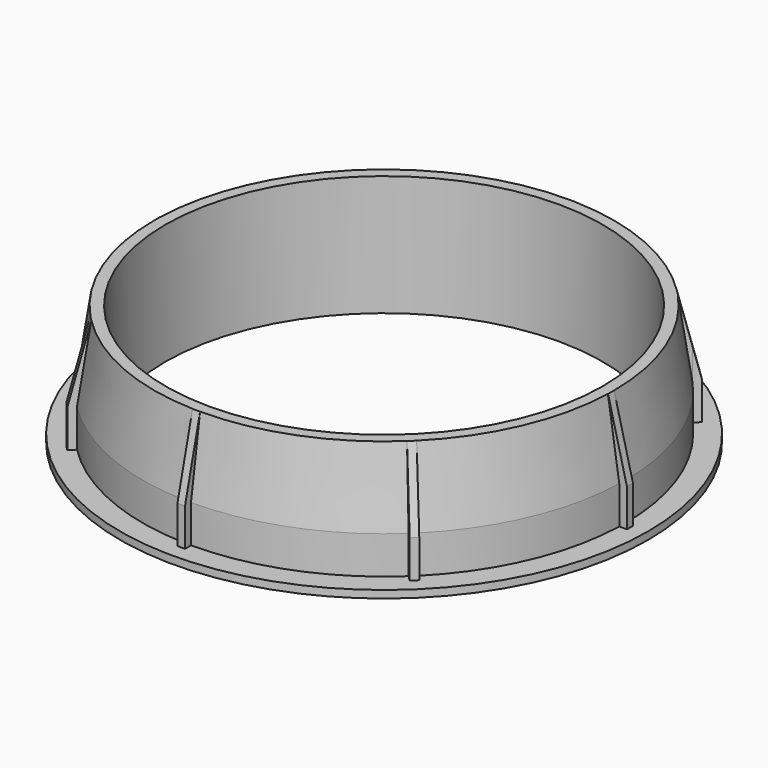
from build123d import *

# Parameters (mm, degrees)
F0_R       = 35
F1_DEPTH   = 1
F2_W       = 1
F2_H       = 1
F3_DEPTH   = 15
F4_R       = 29
F5_DEPTH   = 16.001
F6_SIZE2   = 10
F6_SIZE    = 1.5
F7_SIZE2   = 2.5
F7_SIZE    = 10
F7_2_SIZE2 = 2.5
F7_2_SIZE  = 10
F7_3_SIZE2 = 2.5
F7_3_SIZE  = 10
F7_4_SIZE2 = 2.5
F7_4_SIZE  = 10
F7_5_SIZE2 = 2.5
F7_5_SIZE  = 10
F7_6_SIZE2 = 2.5
F7_6_SIZE  = 10
F7_7_SIZE2 = 2.5
F7_7_SIZE  = 10
F7_8_SIZE2 = 2.5
F7_8_SIZE  = 10


with BuildPart() as f1:
    # F0 (on Top) → F1 (new body)
    with BuildSketch(Plane.XY):
        Circle(F0_R)
    extrude(amount=F1_DEPTH)

    # F2 (on face) → F3 (join)
    with BuildSketch(Plane.XY.offset(1)):
        with BuildLine():
            Line((31, 0), (32, 0))
            ThreePointArc((32, 0), (29.7519001173, 11.7823783426), (23.323472537, 21.9092589746))
            Line((23.323472537, 21.9092589746), (22.627416998, 21.2132034356))
            Line((22.627416998, 21.2132034356), (21.9203102168, 21.9203102168))
            Line((21.9203102168, 21.9203102168), (22.627416998, 22.627416998))
            ThreePointArc((22.627416998, 22.627416998), (12.7063707016, 29.3691699507), (1, 31.9843711834))
            Line((1, 31.9843711834), (1, 31))
            Line((1, 31), (0, 31))
            Line((0, 31), (0, 32))
            ThreePointArc((0, 32), (-11.7823783426, 29.7519001173), (-21.9092589746, 23.323472537))
            Line((-21.9092589746, 23.323472537), (-21.2132034356, 22.627416998))
            Line((-21.2132034356, 22.627416998), (-21.9203102168, 21.9203102168))
            Line((-21.9203102168, 21.9203102168), (-22.627416998, 22.627416998))
            ThreePointArc((-22.627416998, 22.627416998), (-29.3691699507, 12.7063707016), (-31.9843711834, 1))
            Line((-31.9843711834, 1), (-31, 1))
            Line((-31, 1), (-31, 0))
            Line((-31, 0), (-32, 0))
            ThreePointArc((-32, 0), (-29.7519001173, -11.7823783426), (-23.323472537, -21.9092589746))
            Line((-23.323472537, -21.9092589746), (-22.627416998, -21.2132034356))
            Line((-22.627416998, -21.2132034356), (-21.9203102168, -21.9203102168))
            Line((-21.9203102168, -21.9203102168), (-22.627416998, -22.627416998))
            ThreePointArc((-22.627416998, -22.627416998), (-12.7063707016, -29.3691699507), (-1, -31.9843711834))
            Line((-1, -31.9843711834), (-1, -31))
            Line((-1, -31), (0, -31))
            Line((0, -31), (0, -32))
            ThreePointArc((0, -32), (11.7823783426, -29.7519001173), (21.9092589746, -23.323472537))
            Line((21.9092589746, -23.323472537), (21.2132034356, -22.627416998))
            Line((21.2132034356, -22.627416998), (21.9203102168, -21.9203102168))
            Line((21.9203102168, -21.9203102168), (22.627416998, -22.627416998))
            ThreePointArc((22.627416998, -22.627416998), (29.3691699507, -12.7063707016), (31.9843711834, -1))
            Line((31.9843711834, -1), (31, -1))
            Line((31, -1), (31, 0))
        make_face()
        with BuildLine():
            Line((32, -1), (32, 0))
            ThreePointArc((32, 0), (31.9960925573, -0.5000610612), (31.9843711834, -1))
            Line((31.9843711834, -1), (32, -1))
        make_face()
        with BuildLine():
            ThreePointArc((31.9843711834, -1), (31.9960925573, -0.5000610612), (32, 0))
            Line((32, 0), (31, 0))
            Line((31, 0), (31, -1))
            Line((31, -1), (31.9843711834, -1))
        make_face()
        with Locations((32.5, -0.5)):
            Rectangle(F2_W, F2_H)
        with BuildLine():
            Line((22.627416998, 21.2132034356), (23.323472537, 21.9092589746))
            ThreePointArc((23.323472537, 21.9092589746), (22.9782505862, 22.2710574513), (22.627416998, 22.627416998))
            Line((22.627416998, 22.627416998), (21.9203102168, 21.9203102168))
            Line((21.9203102168, 21.9203102168), (22.627416998, 21.2132034356))
        make_face()
        with BuildLine():
            ThreePointArc((22.627416998, 22.627416998), (22.9782505862, 22.2710574513), (23.323472537, 21.9092589746))
            Line((23.323472537, 21.9092589746), (23.3345237792, 21.9203102168))
            Line((23.3345237792, 21.9203102168), (22.627416998, 22.627416998))
        make_face()
        Polygon((23.3345237792, 23.3345237792), (22.627416998, 22.627416998), (23.3345237792, 21.9203102168), (24.0416305603, 22.627416998), align=None)
        with BuildLine():
            Line((21.9203102168, -23.3345237792), (22.627416998, -22.627416998))
            ThreePointArc((22.627416998, -22.627416998), (22.2710574513, -22.9782505862), (21.9092589746, -23.323472537))
            Line((21.9092589746, -23.323472537), (21.9203102168, -23.3345237792))
        make_face()
        with BuildLine():
            ThreePointArc((21.9092589746, -23.323472537), (22.2710574513, -22.9782505862), (22.627416998, -22.627416998))
            Line((22.627416998, -22.627416998), (21.9203102168, -21.9203102168))
            Line((21.9203102168, -21.9203102168), (21.2132034356, -22.627416998))
            Line((21.2132034356, -22.627416998), (21.9092589746, -23.323472537))
        make_face()
        Polygon((23.3345237792, -23.3345237792), (22.627416998, -22.627416998), (21.9203102168, -23.3345237792), (22.627416998, -24.0416305603), align=None)
        with BuildLine():
            Line((1, 31), (1, 31.9843711834))
            ThreePointArc((1, 31.9843711834), (0.5000610612, 31.9960925573), (0, 32))
            Line((0, 32), (0, 31))
            Line((0, 31), (1, 31))
        make_face()
        with BuildLine():
            ThreePointArc((0, 32), (0.5000610612, 31.9960925573), (1, 31.9843711834))
            Line((1, 31.9843711834), (1, 32))
            Line((1, 32), (0, 32))
        make_face()
        with Locations((0.5, 32.5)):
            Rectangle(F2_W, F2_H)
        with BuildLine():
            Line((-1, -32), (0, -32))
            ThreePointArc((0, -32), (-0.5000610612, -31.9960925573), (-1, -31.9843711834))
            Line((-1, -31.9843711834), (-1, -32))
        make_face()
        with BuildLine():
            ThreePointArc((-1, -31.9843711834), (-0.5000610612, -31.9960925573), (0, -32))
            Line((0, -32), (0, -31))
            Line((0, -31), (-1, -31))
            Line((-1, -31), (-1, -31.9843711834))
        make_face()
        with Locations((-0.5, -32.5)):
            Rectangle(F2_W, F2_H)
        with BuildLine():
            Line((-21.2132034356, 22.627416998), (-21.9092589746, 23.323472537))
            ThreePointArc((-21.9092589746, 23.323472537), (-22.2710574513, 22.9782505862), (-22.627416998, 22.627416998))
            Line((-22.627416998, 22.627416998), (-21.9203102168, 21.9203102168))
            Line((-21.9203102168, 21.9203102168), (-21.2132034356, 22.627416998))
        make_face()
        with BuildLine():
            ThreePointArc((-22.627416998, 22.627416998), (-22.2710574513, 22.9782505862), (-21.9092589746, 23.323472537))
            Line((-21.9092589746, 23.323472537), (-21.9203102168, 23.3345237792))
            Line((-21.9203102168, 23.3345237792), (-22.627416998, 22.627416998))
        make_face()
        Polygon((-23.3345237792, 23.3345237792), (-22.627416998, 22.627416998), (-21.9203102168, 23.3345237792), (-22.627416998, 24.0416305603), align=None)
        with BuildLine():
            Line((-23.3345237792, -21.9203102168), (-22.627416998, -22.627416998))
            ThreePointArc((-22.627416998, -22.627416998), (-22.9782505862, -22.2710574513), (-23.323472537, -21.9092589746))
            Line((-23.323472537, -21.9092589746), (-23.3345237792, -21.9203102168))
        make_face()
        with BuildLine():
            ThreePointArc((-23.323472537, -21.9092589746), (-22.9782505862, -22.2710574513), (-22.627416998, -22.627416998))
            Line((-22.627416998, -22.627416998), (-21.9203102168, -21.9203102168))
            Line((-21.9203102168, -21.9203102168), (-22.627416998, -21.2132034356))
            Line((-22.627416998, -21.2132034356), (-23.323472537, -21.9092589746))
        make_face()
        Polygon((-23.3345237792, -23.3345237792), (-22.627416998, -22.627416998), (-23.3345237792, -21.9203102168), (-24.0416305603, -22.627416998), align=None)
        with BuildLine():
            Line((-31, 1), (-31.9843711834, 1))
            ThreePointArc((-31.9843711834, 1), (-31.9960925573, 0.5000610612), (-32, 0))
            Line((-32, 0), (-31, 0))
            Line((-31, 0), (-31, 1))
        make_face()
        with BuildLine():
            ThreePointArc((-32, 0), (-31.9960925573, 0.5000610612), (-31.9843711834, 1))
            Line((-31.9843711834, 1), (-32, 1))
            Line((-32, 1), (-32, 0))
        make_face()
        with Locations((-32.5, 0.5)):
            Rectangle(F2_W, F2_H)
    extrude(amount=F3_DEPTH)

    # F4 (on face) → F5 (cut, through all)
    with BuildSketch(Plane.XY.offset(16)):
        Circle(F4_R)
    extrude(amount=-F5_DEPTH, mode=Mode.SUBTRACT)

    # F6
    f6_edges = [f1.edges().sort_by_distance(p)[0] for p in [
        (12.706371, 29.36917, 16),
        (29.7519, 11.782378, 16),
        (29.36917, -12.706371, 16),
        (11.782378, -29.7519, 16),
        (-12.706371, -29.36917, 16),
        (-29.7519, -11.782378, 16),
        (-29.36917, 12.706371, 16),
        (-11.782378, 29.7519, 16),
    ]]
    f6_side = f1.faces().sort_by_distance((28.512525, -12.335749, 16))[0]
    chamfer(f6_edges, length=F6_SIZE, length2=F6_SIZE2, reference=f6_side)

    # F7
    f7_edges = [f1.edges().sort_by_distance(p)[0] for p in [
        (33, -0.5, 16),
    ]]
    f7_side = f1.faces().sort_by_distance((33, -0.5, 8.5))[0]
    chamfer(f7_edges, length=F7_SIZE, length2=F7_SIZE2, reference=f7_side)

    # F7#2
    f7_2_edges = [f1.edges().sort_by_distance(p)[0] for p in [
        (22.98097, -23.688077, 16),
    ]]
    f7_2_side = f1.faces().sort_by_distance((22.98097, -23.688077, 8.5))[0]
    chamfer(f7_2_edges, length=F7_2_SIZE, length2=F7_2_SIZE2, reference=f7_2_side)

    # F7#3
    f7_3_edges = [f1.edges().sort_by_distance(p)[0] for p in [
        (-0.5, -33, 16),
    ]]
    f7_3_side = f1.faces().sort_by_distance((-0.5, -33, 8.5))[0]
    chamfer(f7_3_edges, length=F7_3_SIZE, length2=F7_3_SIZE2, reference=f7_3_side)

    # F7#4
    f7_4_edges = [f1.edges().sort_by_distance(p)[0] for p in [
        (-23.688077, -22.98097, 16),
    ]]
    f7_4_side = f1.faces().sort_by_distance((-23.688077, -22.98097, 8.5))[0]
    chamfer(f7_4_edges, length=F7_4_SIZE, length2=F7_4_SIZE2, reference=f7_4_side)

    # F7#5
    f7_5_edges = [f1.edges().sort_by_distance(p)[0] for p in [
        (-33, 0.5, 16),
    ]]
    f7_5_side = f1.faces().sort_by_distance((-33, 0.5, 8.5))[0]
    chamfer(f7_5_edges, length=F7_5_SIZE, length2=F7_5_SIZE2, reference=f7_5_side)

    # F7#6
    f7_6_edges = [f1.edges().sort_by_distance(p)[0] for p in [
        (-22.98097, 23.688077, 16),
    ]]
    f7_6_side = f1.faces().sort_by_distance((-22.98097, 23.688077, 8.5))[0]
    chamfer(f7_6_edges, length=F7_6_SIZE, length2=F7_6_SIZE2, reference=f7_6_side)

    # F7#7
    f7_7_edges = [f1.edges().sort_by_distance(p)[0] for p in [
        (0.5, 33, 16),
    ]]
    f7_7_side = f1.faces().sort_by_distance((0.5, 33, 8.5))[0]
    chamfer(f7_7_edges, length=F7_7_SIZE, length2=F7_7_SIZE2, reference=f7_7_side)

    # F7#8
    f7_8_edges = [f1.edges().sort_by_distance(p)[0] for p in [
        (23.688077, 22.98097, 16),
    ]]
    f7_8_side = f1.faces().sort_by_distance((23.688077, 22.98097, 8.5))[0]
    chamfer(f7_8_edges, length=F7_8_SIZE, length2=F7_8_SIZE2, reference=f7_8_side)


solid = f1.part
